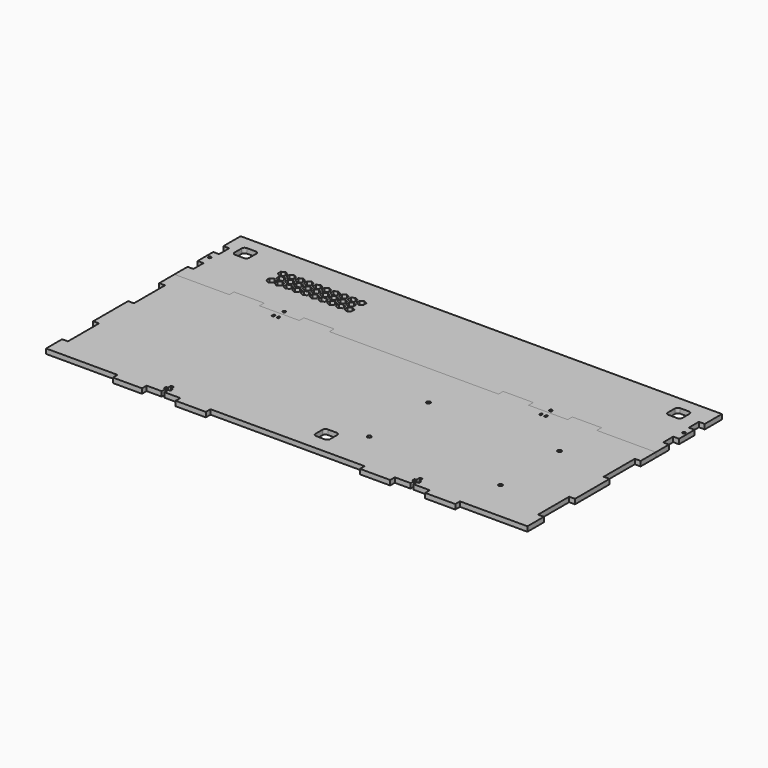
from build123d import *

# Parameters (mm, degrees)
F0_R     = 2
F0_W     = 2
F0_H     = 3
F0_W_2   = 31
F0_H_2   = 6
F0_W_3   = 30
F1_DEPTH = 5
F0_R_2   = 1.5
F2_DEPTH = 5


with BuildPart() as f1:
    # F0 (on Top) → F1 (new body)
    with BuildSketch(Plane.XY):
        Polygon((-217.480722, -71.993683), (-273.995074, -71.993683), (-273.995074, -91.567625), (-267.995074, -91.567625), (-267.995074, -131.567625), (-273.995074, -131.567625), (-273.995074, -176.392515), (-267.995074, -176.392515), (-267.995074, -216.392515), (-273.995074, -216.392515), (-273.995074, -236.993683), (-200.571299, -236.993683), (-170.571299, -236.993683), (-155.094311, -236.993683), (-155.094311, -231.993683), (-157.094311, -231.993683), (-157.094311, -228.993683), (-155.094311, -228.993683), (-155.094311, -224.993683), (-152.094311, -224.993683), (-152.094311, -228.993683), (-150.094311, -228.993683), (-150.094311, -231.993683), (-152.094311, -231.993683), (-152.094311, -236.993683), (-135.941178, -236.993683), (-104.941178, -236.993683), (53.657468, -236.993683), (84.657468, -236.993683), (100.905689, -236.993683), (100.905689, -232.57346), (98.905689, -232.57346), (98.905689, -229.57346), (100.905689, -229.57346), (100.905689, -225.07346), (100.905689, -224.993683), (103.905689, -224.993683), (103.905689, -229.57346), (105.905689, -229.57346), (105.905689, -232.57346), (103.905689, -232.57346), (103.905689, -236.993683), (120.604448, -236.993683), (151.604448, -236.993683), (221.004926, -236.993683), (221.004926, -215.854615), (215.004926, -215.854615), (215.004926, -175.854615), (221.004926, -175.854615), (221.004926, -131.470785), (215.004926, -131.470785), (215.004926, -91.470785), (221.004926, -91.470785), (221.004926, -71.993683), (160.367604, -71.993683), (130.367604, -71.993683), (90.265298, -71.993683), (59.265298, -71.993683), (-114.628604, -71.993683), (-145.628604, -71.993683), (-186.480722, -71.993683), align=None)
        with BuildLine():
            ThreePointArc((-12.435183, -208.603805), (-11.556503, -206.482484), (-9.435183, -205.603805))
            Line((-9.435183, -205.603805), (-0.435183, -205.603805))
            ThreePointArc((-0.435183, -205.603805), (1.686138, -206.482484), (2.564817, -208.603805))
            Line((2.564817, -208.603805), (2.564817, -217.603805))
            ThreePointArc((2.564817, -217.603805), (1.686138, -219.725125), (-0.435183, -220.603805))
            Line((-0.435183, -220.603805), (-9.435183, -220.603805))
            ThreePointArc((-9.435183, -220.603805), (-11.556503, -219.725125), (-12.435183, -217.603805))
            Line((-12.435183, -217.603805), (-12.435183, -208.603805))
        make_face(mode=Mode.SUBTRACT)
        with Locations((24.410408, -194.569021)):
            Circle(F0_R, mode=Mode.SUBTRACT)
        with Locations((159.410408, -194.569021)):
            Circle(F0_R, mode=Mode.SUBTRACT)
        with Locations((24.410408, -118.569021)):
            Circle(F0_R, mode=Mode.SUBTRACT)
        with Locations((159.410408, -118.569021)):
            Circle(F0_R, mode=Mode.SUBTRACT)
        with Locations((-167.094311, -78.07346)):
            Rectangle(F0_W, F0_H, mode=Mode.SUBTRACT)
        with Locations((-162.094311, -78.07346)):
            Rectangle(F0_W, F0_H, mode=Mode.SUBTRACT)
        with Locations((107.905695, -78.073462)):
            Rectangle(F0_W, F0_H, mode=Mode.SUBTRACT)
        with Locations((112.905695, -78.073462)):
            Rectangle(F0_W, F0_H, mode=Mode.SUBTRACT)
        with Locations((-201.980722, -68.993683)):
            Rectangle(F0_W_2, F0_H_2)
        with Locations((-130.128604, -68.993683)):
            Rectangle(F0_W_2, F0_H_2)
        with Locations((74.765298, -68.993683)):
            Rectangle(F0_W_2, F0_H_2)
        with Locations((145.367604, -68.993683)):
            Rectangle(F0_W_3, F0_H_2)
        with Locations((-185.571299, -239.993683)):
            Rectangle(F0_W_3, F0_H_2)
        with Locations((-120.441178, -239.993683)):
            Rectangle(F0_W_2, F0_H_2)
        with Locations((69.157468, -239.993683)):
            Rectangle(F0_W_2, F0_H_2)
        with Locations((136.104448, -239.993683)):
            Rectangle(F0_W_2, F0_H_2)
    extrude(amount=F1_DEPTH)


with BuildPart() as f2:
    # F0 (on Top) → F2 (new body)
    with BuildSketch(Plane.XY):
        Polygon((-273.995074, -55.10323), (-273.995074, -71.993683), (-217.480722, -71.993683), (-217.480722, -65.993683), (-186.480722, -65.993683), (-186.480722, -71.993683), (-145.628604, -71.993683), (-145.628604, -65.993683), (-114.628604, -65.993683), (-114.628604, -71.993683), (59.265298, -71.993683), (59.265298, -65.993683), (90.265298, -65.993683), (90.265298, -71.993683), (130.367604, -71.993683), (130.367604, -65.993683), (160.367604, -65.993683), (160.367604, -71.993683), (221.004926, -71.993683), (221.004926, -55.10323), (215.004926, -55.10323), (215.004926, -42.10323), (221.004926, -42.10323), (221.004926, -22.10323), (215.004926, -22.10323), (215.004926, -9.10323), (221.004926, -9.10323), (221.004926, 13.006317), (-273.995074, 13.006317), (-273.995074, -9.10323), (-267.995074, -9.10323), (-267.995074, -22.10323), (-273.995074, -22.10323), (-273.995074, -42.10323), (-267.995074, -42.10323), (-267.995074, -55.10323), align=None)
        with Locations((-164.608762, -67.510925)):
            Circle(F0_R_2, mode=Mode.SUBTRACT)
        with Locations((-270.346969, -31.271666)):
            Circle(F0_R_2, mode=Mode.SUBTRACT)
        Polygon((-206.727941, -35.768438), (-210.192042, -33.768438), (-210.192042, -29.768438), (-206.727941, -27.768438), (-203.263839, -29.768438), (-203.263839, -33.768438), align=None, mode=Mode.SUBTRACT)
        Polygon((-198.216044, -35.768437), (-201.680146, -33.768437), (-201.680146, -29.768437), (-198.216044, -27.768437), (-194.751943, -29.768437), (-194.751943, -33.768437), align=None, mode=Mode.SUBTRACT)
        Polygon((-189.216044, -35.768437), (-192.680146, -33.768437), (-192.680146, -29.768437), (-189.216044, -27.768437), (-185.751943, -29.768437), (-185.751943, -33.768437), align=None, mode=Mode.SUBTRACT)
        Polygon((-202.471992, -28.396918), (-205.936094, -26.396918), (-205.936094, -22.396918), (-202.471992, -20.396918), (-199.007891, -22.396918), (-199.007891, -26.396918), align=None, mode=Mode.SUBTRACT)
        Polygon((-193.471992, -28.396918), (-196.936094, -26.396918), (-196.936094, -22.396918), (-193.471992, -20.396918), (-190.007891, -22.396918), (-190.007891, -26.396918), align=None, mode=Mode.SUBTRACT)
        Polygon((-184.471992, -28.396918), (-187.936094, -26.396918), (-187.936094, -22.396918), (-184.471992, -20.396918), (-181.007891, -22.396918), (-181.007891, -26.396918), align=None, mode=Mode.SUBTRACT)
        Polygon((-180.216044, -35.768437), (-183.680146, -33.768437), (-183.680146, -29.768437), (-180.216044, -27.768437), (-176.751943, -29.768437), (-176.751943, -33.768437), align=None, mode=Mode.SUBTRACT)
        Polygon((-171.216044, -35.768437), (-174.680146, -33.768437), (-174.680146, -29.768437), (-171.216044, -27.768437), (-167.751943, -29.768437), (-167.751943, -33.768437), align=None, mode=Mode.SUBTRACT)
        Polygon((-162.216044, -35.768437), (-165.680146, -33.768437), (-165.680146, -29.768437), (-162.216044, -27.768437), (-158.751943, -29.768437), (-158.751943, -33.768437), align=None, mode=Mode.SUBTRACT)
        Polygon((-153.216044, -35.768437), (-156.680146, -33.768437), (-156.680146, -29.768437), (-153.216044, -27.768437), (-149.751943, -29.768437), (-149.751943, -33.768437), align=None, mode=Mode.SUBTRACT)
        Polygon((-175.471992, -28.396918), (-178.936094, -26.396918), (-178.936094, -22.396918), (-175.471992, -20.396918), (-172.007891, -22.396918), (-172.007891, -26.396918), align=None, mode=Mode.SUBTRACT)
        Polygon((-166.471992, -28.396918), (-169.936094, -26.396918), (-169.936094, -22.396918), (-166.471992, -20.396918), (-163.007891, -22.396918), (-163.007891, -26.396918), align=None, mode=Mode.SUBTRACT)
        Polygon((-157.471992, -28.396918), (-160.936094, -26.396918), (-160.936094, -22.396918), (-157.471992, -20.396918), (-154.007891, -22.396918), (-154.007891, -26.396918), align=None, mode=Mode.SUBTRACT)
        with BuildLine():
            ThreePointArc((-260.078136, -2.993683), (-259.199457, -0.872363), (-257.078136, 0.006317))
            Line((-257.078136, 0.006317), (-248.078136, 0.006317))
            ThreePointArc((-248.078136, 0.006317), (-245.956816, -0.872363), (-245.078136, -2.993683))
            Line((-245.078136, -2.993683), (-245.078136, -11.993683))
            ThreePointArc((-245.078136, -11.993683), (-245.956816, -14.115004), (-248.078136, -14.993683))
            Line((-248.078136, -14.993683), (-257.078136, -14.993683))
            ThreePointArc((-257.078136, -14.993683), (-259.199457, -14.115004), (-260.078136, -11.993683))
            Line((-260.078136, -11.993683), (-260.078136, -2.993683))
        make_face(mode=Mode.SUBTRACT)
        Polygon((-206.727941, -13.025399), (-203.263839, -15.025399), (-203.263839, -19.025399), (-206.727941, -21.025399), (-210.192042, -19.025399), (-210.192042, -15.025399), align=None, mode=Mode.SUBTRACT)
        Polygon((-197.727941, -21.025399), (-201.192042, -19.025399), (-201.192042, -15.025399), (-197.727941, -13.025399), (-194.263839, -15.025399), (-194.263839, -19.025399), align=None, mode=Mode.SUBTRACT)
        Polygon((-188.727941, -21.025399), (-192.192042, -19.025399), (-192.192042, -15.025399), (-188.727941, -13.025399), (-185.263839, -15.025399), (-185.263839, -19.025399), align=None, mode=Mode.SUBTRACT)
        Polygon((-179.727941, -21.025399), (-183.192042, -19.025399), (-183.192042, -15.025399), (-179.727941, -13.025399), (-176.263839, -15.025399), (-176.263839, -19.025399), align=None, mode=Mode.SUBTRACT)
        Polygon((-170.727941, -21.025399), (-174.192042, -19.025399), (-174.192042, -15.025399), (-170.727941, -13.025399), (-167.263839, -15.025399), (-167.263839, -19.025399), align=None, mode=Mode.SUBTRACT)
        Polygon((-161.727941, -21.025399), (-165.192042, -19.025399), (-165.192042, -15.025399), (-161.727941, -13.025399), (-158.263839, -15.025399), (-158.263839, -19.025399), align=None, mode=Mode.SUBTRACT)
        Polygon((-152.727941, -21.025399), (-156.192042, -19.025399), (-156.192042, -15.025399), (-152.727941, -13.025399), (-149.263839, -15.025399), (-149.263839, -19.025399), align=None, mode=Mode.SUBTRACT)
        Polygon((-144.216044, -35.768437), (-147.680146, -33.768437), (-147.680146, -29.768437), (-144.216044, -27.768437), (-140.751943, -29.768437), (-140.751943, -33.768437), align=None, mode=Mode.SUBTRACT)
        Polygon((-135.216044, -35.768437), (-138.680146, -33.768437), (-138.680146, -29.768437), (-135.216044, -27.768437), (-131.751943, -29.768437), (-131.751943, -33.768437), align=None, mode=Mode.SUBTRACT)
        Polygon((-126.216044, -35.768437), (-129.680146, -33.768437), (-129.680146, -29.768437), (-126.216044, -27.768437), (-122.751943, -29.768437), (-122.751943, -33.768437), align=None, mode=Mode.SUBTRACT)
        Polygon((-148.471992, -28.396918), (-151.936094, -26.396918), (-151.936094, -22.396918), (-148.471992, -20.396918), (-145.007891, -22.396918), (-145.007891, -26.396918), align=None, mode=Mode.SUBTRACT)
        Polygon((-139.471992, -28.396918), (-142.936094, -26.396918), (-142.936094, -22.396918), (-139.471992, -20.396918), (-136.007891, -22.396918), (-136.007891, -26.396918), align=None, mode=Mode.SUBTRACT)
        Polygon((-130.471992, -28.396918), (-133.936094, -26.396918), (-133.936094, -22.396918), (-130.471992, -20.396918), (-127.007891, -22.396918), (-127.007891, -26.396918), align=None, mode=Mode.SUBTRACT)
        Polygon((-143.727941, -21.025399), (-147.192042, -19.025399), (-147.192042, -15.025399), (-143.727941, -13.025399), (-140.263839, -15.025399), (-140.263839, -19.025399), align=None, mode=Mode.SUBTRACT)
        Polygon((-134.727941, -21.025399), (-138.192042, -19.025399), (-138.192042, -15.025399), (-134.727941, -13.025399), (-131.263839, -15.025399), (-131.263839, -19.025399), align=None, mode=Mode.SUBTRACT)
        Polygon((-125.727941, -21.025399), (-129.192042, -19.025399), (-129.192042, -15.025399), (-125.727941, -13.025399), (-122.263839, -15.025399), (-122.263839, -19.025399), align=None, mode=Mode.SUBTRACT)
        with Locations((109.994367, -68.017684)):
            Circle(F0_R_2, mode=Mode.SUBTRACT)
        with Locations((217.617825, -31.362135)):
            Circle(F0_R_2, mode=Mode.SUBTRACT)
        with BuildLine():
            ThreePointArc((185.513496, -2.993683), (186.392176, -0.872363), (188.513496, 0.006317))
            Line((188.513496, 0.006317), (197.513496, 0.006317))
            ThreePointArc((197.513496, 0.006317), (199.634817, -0.872363), (200.513496, -2.993683))
            Line((200.513496, -2.993683), (200.513496, -11.993683))
            ThreePointArc((200.513496, -11.993683), (199.634817, -14.115004), (197.513496, -14.993683))
            Line((197.513496, -14.993683), (188.513496, -14.993683))
            ThreePointArc((188.513496, -14.993683), (186.392176, -14.115004), (185.513496, -11.993683))
            Line((185.513496, -11.993683), (185.513496, -2.993683))
        make_face(mode=Mode.SUBTRACT)
    extrude(amount=F2_DEPTH)


solid = Compound([f1.part, f2.part])
